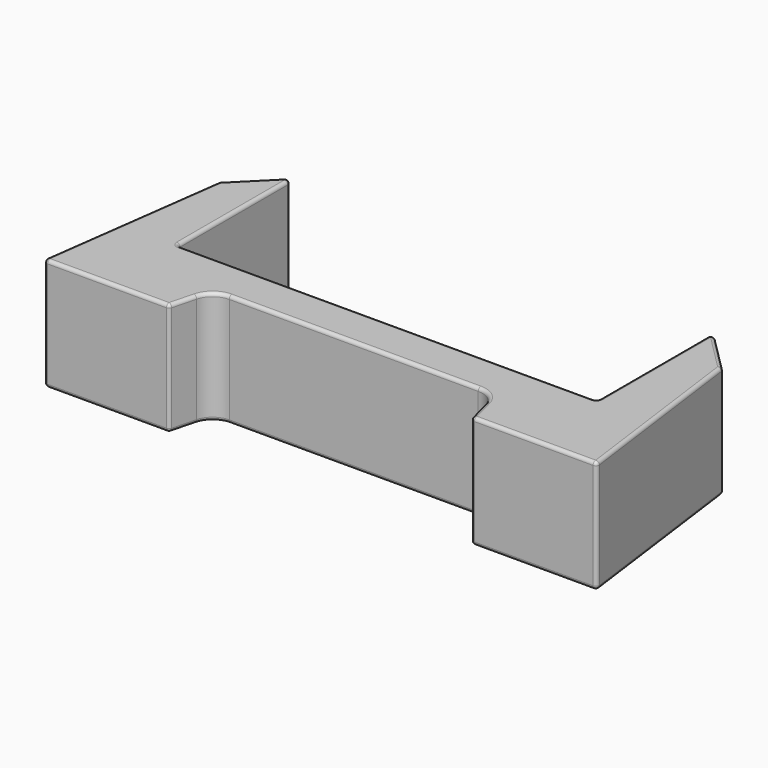
from build123d import *

# Parameters (mm, degrees)
F1_DEPTH = 27
F2_R     = 0.8


with BuildPart() as f1:
    # F0 (on Top) → F1 (new body)
    with BuildSketch(Plane.XY):
        with BuildLine():
            Line((-50.3, 0), (-50.3, 35))
            Line((-50.3, 35), (-60.3, 25))
            Line((-60.3, 25), (-66.3, -20))
            Line((-66.3, -20), (-36.3, -20))
            Line((-36.3, -20), (-34.686257, -13.75))
            ThreePointArc((-34.686257, -13.75), (-32.90689, -11.047153), (-29.845028, -10))
            Line((-29.845028, -10), (29.845028, -10))
            ThreePointArc((29.845028, -10), (32.90689, -11.047153), (34.686257, -13.75))
            Line((34.686257, -13.75), (36.3, -20))
            Line((36.3, -20), (66.3, -20))
            Line((66.3, -20), (60.3, 25))
            Line((60.3, 25), (50.3, 35))
            Line((50.3, 35), (50.3, 0))
            Line((50.3, 0), (-50.3, 0))
        make_face()
    extrude(amount=F1_DEPTH)

    # F2
    f2_edges = [f1.edges().sort_by_distance(p)[0] for p in [
        (0, -10, 27),
        (35.493128, -16.875, 27),
        (32.90689, -11.047153, 27),
        (51.3, -20, 27),
        (63.3, 2.5, 27),
        (0, 0, 27),
        (-50.3, 17.5, 27),
        (-55.3, 30, 27),
        (-63.3, 2.5, 27),
        (-51.3, -20, 27),
        (-35.493128, -16.875, 27),
        (-32.90689, -11.047153, 27),
        (55.3, 30, 27),
        (50.3, 17.5, 27),
        (66.3, -20, 13.5),
        (60.3, 25, 13.5),
        (63.3, 2.5, 0),
        (36.3, -20, 13.5),
        (51.3, -20, 0),
        (-36.3, -20, 13.5),
        (-34.686257, -13.75, 13.5),
        (-35.493128, -16.875, 0),
        (-66.3, -20, 13.5),
        (-51.3, -20, 0),
        (-29.845028, -10, 13.5),
        (29.845028, -10, 13.5),
        (0, -10, 0),
        (-50.3, 0, 13.5),
        (-50.3, 35, 13.5),
        (-50.3, 17.5, 0),
        (50.3, 35, 13.5),
        (55.3, 30, 0),
        (0, 0, 0),
        (-55.3, 30, 0),
        (-63.3, 2.5, 0),
        (-32.90689, -11.047153, 0),
        (32.90689, -11.047153, 0),
        (35.493128, -16.875, 0),
        (50.3, 17.5, 0),
        (50.3, 0, 13.5),
        (-60.3, 25, 13.5),
    ]]
    fillet(f2_edges, radius=F2_R)


solid = f1.part
